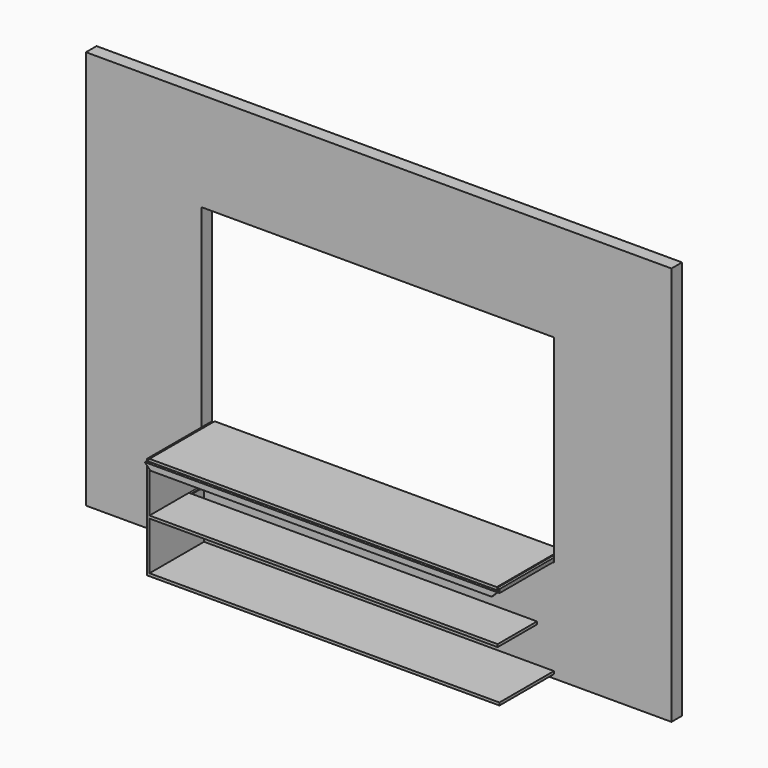
from build123d import *

# Parameters (mm, degrees)
F5_W      = 3930.65
F5_H      = 2679.7
F6_DEPTH  = 88.9
F7_W      = 2366.9625
F7_H      = 1331.9125
F8_DEPTH  = 101.6
F9_W      = 2366.9625
F9_H      = 546.1
F10_DEPTH = 18
F11_W     = 18
F11_H     = 546.1
F12_DEPTH = 6
F13_W     = 1066.8
F13_H     = 127
F14_DEPTH = 25.4
F15_W     = 18
F15_H     = 457.2087098718
F16_DEPTH = 646.1125
F18_DEPTH = 18
F19_W     = 457.2087098718
F19_H     = 18
F20_DEPTH = 6
F21_W     = 330.2
F21_H     = 18
F22_DEPTH = 2342.9625
F23_W     = 2366.9625
F23_H     = 457.2
F24_DEPTH = 18
F26_W     = 2366.9625
F26_H     = 546.1
F27_DEPTH = 18
F28_W     = 18
F28_H     = 546.1
F29_DEPTH = 6
F30_W     = 774.7
F30_H     = 254
F31_DEPTH = 18
F32_W     = 18
F32_H     = 254
F33_DEPTH = 6
F34_W     = 1983.4875
F34_H     = 254
F35_DEPTH = 18
F36_W     = 2366.9625
F36_H     = 457.2
F37_DEPTH = 18


with BuildPart() as f6:
    # F5 (on Front) → F6 (new body)
    with BuildSketch(Plane.XZ):
        with Locations((90.2952486297, 1339.85)):
            Rectangle(F5_W, F5_H)
    extrude(amount=F6_DEPTH)

    # F7 (on face) → F8 (cut)
    with BuildSketch(Plane.XZ.offset(88.9)):
        with Locations((83.1514986297, 1350.16875)):
            Rectangle(F7_W, F7_H)
    extrude(amount=-F8_DEPTH, mode=Mode.SUBTRACT)


with BuildPart() as f10:
    # F9 (on face) → F10 (new body)
    with BuildSketch(Plane.XY.offset(684.2125)):
        with Locations((83.1514986297, -273.05)):
            Rectangle(F9_W, F9_H)
    extrude(amount=F10_DEPTH)

    # F11 (on face) → F12 (cut)
    with BuildSketch(Plane(origin=(0, 0, 684.2125), x_dir=(1, 0, 0), z_dir=(0, 0, -1))):
        with Locations((-1091.3297513703, 273.05)):
            Rectangle(F11_W, F11_H)
        with Locations((1257.6327486297, 273.05)):
            Rectangle(F11_W, F11_H)
    extrude(amount=-F12_DEPTH, mode=Mode.SUBTRACT)

    # F13 (on face) → F14 (cut)
    with BuildSketch(Plane.XY.offset(702.2125)):
        with Locations((83.1514986297, -152.4)):
            Rectangle(F13_W, F13_H)
    extrude(amount=-F14_DEPTH, mode=Mode.SUBTRACT)


with BuildPart() as f16:
    # F15 (on face) → F16 (new body)
    with BuildSketch(Plane(origin=(0, 0, 690.2125), x_dir=(1, 0, 0), z_dir=(0, 0, -1))):
        with Locations((-1091.3297513703, 317.4956450641)):
            Rectangle(F15_W, F15_H)
    extrude(amount=F16_DEPTH)

    # F19 (on face) → F20 (cut)
    with BuildSketch(Plane.YZ.offset(-1082.3297513703)):
        with Locations((-317.4956450641, 376.15625)):
            Rectangle(F19_W, F19_H)
    extrude(amount=-F20_DEPTH, mode=Mode.SUBTRACT)


with BuildPart() as f18:
    # F17 (on face) → F18 (new body)
    with BuildSketch(Plane.XZ.offset(546.1)):
        Polygon((1266.6327486297, 702.2125), (-1100.3297513703, 702.2125), (-1062.2297513703, 664.1125), (1228.5327486297, 664.1125), align=None)
    extrude(amount=F18_DEPTH)


with BuildPart() as f22:
    # F21 (on face) → F22 (new body)
    with BuildSketch(Plane.YZ.offset(-1088.3297513703)):
        with Locations((-381, 376.15625)):
            Rectangle(F21_W, F21_H)
    extrude(amount=F22_DEPTH)


with BuildPart() as f24:
    # F23 (on face) → F24 (new body)
    with BuildSketch(Plane(origin=(0, 0, 0), x_dir=(1, 0, 0), z_dir=(0, 0, -1))):
        with Locations((82.3105909348, 317.5)):
            Rectangle(F23_W, F23_H)
    extrude(amount=-F24_DEPTH)


with BuildPart() as f27:
    # F26 (on face) → F27 (new body)
    with BuildSketch(Plane.XY.offset(702.2125)):
        with Locations((83.1514986297, -273.05)):
            Rectangle(F26_W, F26_H)
    extrude(amount=F27_DEPTH)

    # F28 (on face) → F29 (cut)
    with BuildSketch(Plane.XY.offset(720.2125)):
        with Locations((-1091.3297513703, -273.05)):
            Rectangle(F28_W, F28_H)
        with Locations((1257.6327486297, -273.05)):
            Rectangle(F28_W, F28_H)
    extrude(amount=-F29_DEPTH, mode=Mode.SUBTRACT)


with BuildPart() as f31:
    # F30 (on Top) → F31 (new body)
    with BuildSketch(Plane.XY):
        with Locations((-1044.0037846565, 339.1300391686)):
            Rectangle(F30_W, F30_H)
    extrude(amount=F31_DEPTH)

    # F32 (on face) → F33 (cut)
    with BuildSketch(Plane(origin=(0, 0, 0), x_dir=(1, 0, 0), z_dir=(0, 0, -1))):
        with Locations((-1422.3537846565, -339.1300391686)):
            Rectangle(F32_W, F32_H)
        with Locations((-665.6537846565, -339.1300391686)):
            Rectangle(F32_W, F32_H)
    extrude(amount=-F33_DEPTH, mode=Mode.SUBTRACT)


with BuildPart() as f35:
    # F34 (on Top) → F35 (new body)
    with BuildSketch(Plane.XY):
        with Locations((-388.2970929861, 230.6447712948)):
            Rectangle(F34_W, F34_H)
    extrude(amount=F35_DEPTH)


with BuildPart() as f37:
    # F36 (on face) → F37 (new body)
    with BuildSketch(Plane(origin=(0, 0, 44.1), x_dir=(1, 0, 0), z_dir=(0, 0, -1))):
        with Locations((83.1514986297, 317.5)):
            Rectangle(F36_W, F36_H)
    extrude(amount=F37_DEPTH)


solid = Compound([f6.part, f10.part, f16.part, f18.part, f22.part, f27.part, f31.part, f35.part, f37.part])
